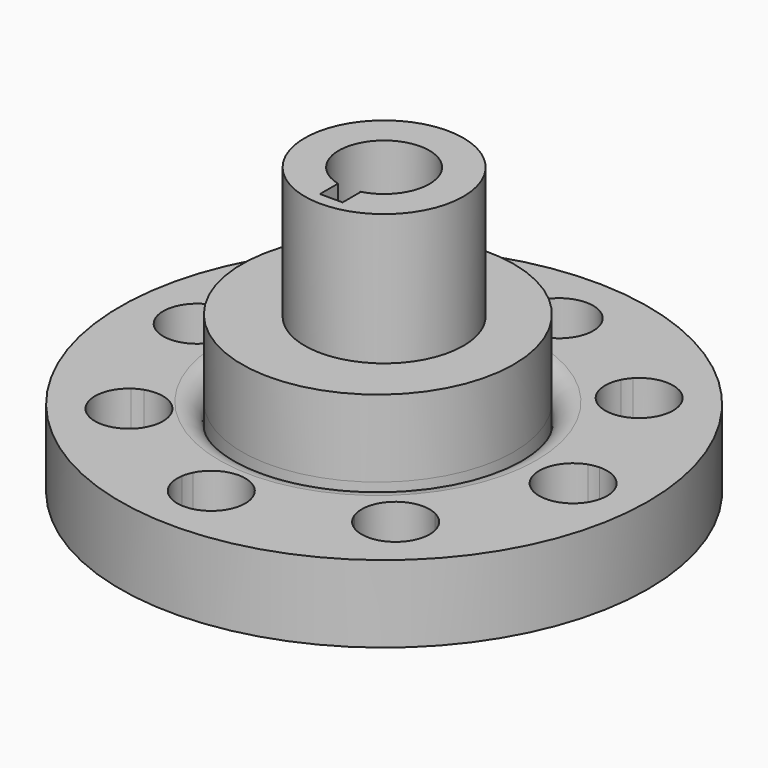
from build123d import *

# Parameters (mm, degrees)
F0_R      = 22.225
F0_R_2    = 12.7
F1_DEPTH  = 58.42
F2_R      = 38.1
F3_DEPTH  = 21.59
F4_DEPTH  = 21.591
F2_R_2    = 55.88
F5_DEPTH  = 21.59
F2_R_3    = 73.9775
F6_DEPTH  = 21.59
F7_DEPTH  = 21.59
F8_R      = 12.7
F9_DEPTH  = 21.591
F11_DEPTH = 25.4
F13_DEPTH = 80.011
F14_DEPTH = 80.011
F15_DEPTH = 80.011
F16_DEPTH = 80.011
F17_DEPTH = 80.011
F18_DEPTH = 80.011
F19_DEPTH = 80.011
F20_R     = 6.35


with BuildPart() as f1:
    # F0 (on Top) → F1 (new body)
    with BuildSketch(Plane.XY):
        Circle(F0_R)
        Circle(F0_R_2, mode=Mode.SUBTRACT)
    extrude(amount=F1_DEPTH)

    # F2 (on Top) → F3 (join)
    with BuildSketch(Plane.XY):
        with Locations((-1.7450299347, 0)):
            Circle(F2_R)
    extrude(amount=F3_DEPTH)

    # F4 (cut, through all): a face of the model
    f4_faces = [f1.faces().sort_by_distance(p)[0] for p in [
        (0, 0, 21.59),
    ]]
    extrude(f4_faces, amount=-F4_DEPTH, mode=Mode.SUBTRACT)

    # F10 (on face) → F11 (cut)
    with BuildSketch(Plane.XY.offset(58.42)):
        with BuildLine():
            ThreePointArc((3.0402036796, -12.3307405125), (0, -12.7), (-3.0402036796, -12.3307405125))
            Line((-3.0402036796, -12.3307405125), (-3.0402036796, -18.6807405125))
            Line((-3.0402036796, -18.6807405125), (3.3097963204, -18.6807405125))
            Line((3.3097963204, -18.6807405125), (3.3097963204, -12.3307405125))
            Line((3.3097963204, -12.3307405125), (3.0402036796, -12.3307405125))
        make_face()
    extrude(amount=-F11_DEPTH, mode=Mode.SUBTRACT)


with BuildPart() as f5:
    # F2 (on Top) → F5 (new body)
    with BuildSketch(Plane.XY):
        Circle(F2_R_2)
        with Locations((-1.7450299347, 0)):
            Circle(F2_R, mode=Mode.SUBTRACT)
    extrude(amount=-F5_DEPTH)

    # F2 (on Top) → F6 (join)
    with BuildSketch(Plane.XY):
        Circle(F2_R_3)
        Circle(F2_R_2, mode=Mode.SUBTRACT)
    extrude(amount=-F6_DEPTH)

    # F12 (on face) → F13 (cut, through all)
    with BuildSketch(Plane(origin=(0, 0, -21.59), x_dir=(1, 0, 0), z_dir=(0, 0, -1))):
        with BuildLine():
            ThreePointArc((51.318961174, -37.0923066064), (50.3070584988, -32.8199771552), (47.4863524728, -29.4554023709))
            ThreePointArc((47.4863524728, -29.4554023709), (44.8031715149, -33.3953622859), (41.793961174, -37.0923066064))
            ThreePointArc((41.793961174, -37.0923066064), (38.4806192525, -40.5193329406), (34.8872566955, -43.6515030699))
            ThreePointArc((34.8872566955, -43.6515030699), (45.3251978443, -45.938548327), (51.318961174, -37.0923066064))
        make_face()
        with BuildLine():
            ThreePointArc((34.8872566955, -43.6515030699), (38.4806192525, -40.5193329406), (41.793961174, -37.0923066064))
            Line((41.793961174, -37.0923066064), (33.2713452593, -41.3456162553))
            ThreePointArc((33.2713452593, -41.3456162553), (33.993623973, -42.5586000993), (34.8872566955, -43.6515030699))
        make_face()
        with BuildLine():
            Line((41.793961174, -37.0923066064), (44.8952914687, -28.0863432818))
            ThreePointArc((44.8952914687, -28.0863432818), (34.6315827709, -30.8132970818), (33.2713452593, -41.3456162553))
            Line((33.2713452593, -41.3456162553), (41.793961174, -37.0923066064))
        make_face()
        with BuildLine():
            ThreePointArc((41.793961174, -37.0923066064), (44.8031715149, -33.3953622859), (47.4863524728, -29.4554023709))
            ThreePointArc((47.4863524728, -29.4554023709), (46.243788762, -28.6706286597), (44.8952914687, -28.0863432818))
            Line((44.8952914687, -28.0863432818), (41.793961174, -37.0923066064))
        make_face()
    extrude(amount=-F13_DEPTH, mode=Mode.SUBTRACT)

    # F12 (on face) → F14 (cut, through all)
    with BuildSketch(Plane(origin=(0, 0, -21.59), x_dir=(1, 0, 0), z_dir=(0, 0, -1))):
        with BuildLine():
            Line((52.6692927405, -5.5113952149), (55.7706230351, 3.4945681097))
            Line((55.7706230351, 3.4945681097), (51.5693433404, 12.0429523972))
            ThreePointArc((51.5693433404, 12.0429523972), (46.264266836, 2.898903091), (52.6692927405, -5.5113952149))
        make_face()
        with BuildLine():
            ThreePointArc((55.7706230351, 3.4945681097), (55.8526490652, 1.7481396965), (55.88, 0))
            ThreePointArc((55.88, 0), (55.7984204348, -3.0183897999), (55.5539199361, -6.0279664671))
            ThreePointArc((55.5539199361, -6.0279664671), (62.4287582088, -3.3168092113), (65.2956230351, 3.4945681097))
            ThreePointArc((65.2956230351, 3.4945681097), (61.989762708, 10.7089930161), (54.3669245093, 12.9155688765))
            ThreePointArc((54.3669245093, 12.9155688765), (55.2698711654, 8.2350313518), (55.7706230351, 3.4945681097))
        make_face()
        with BuildLine():
            ThreePointArc((55.5539199361, -6.0279664671), (55.7984204348, -3.0183897999), (55.88, 0))
            ThreePointArc((55.88, 0), (55.8526490652, 1.7481396965), (55.7706230351, 3.4945681097))
            Line((55.7706230351, 3.4945681097), (52.6692927405, -5.5113952149))
            ThreePointArc((52.6692927405, -5.5113952149), (54.0916209908, -5.8812826322), (55.5539199361, -6.0279664671))
        make_face()
        with BuildLine():
            Line((51.5693433404, 12.0429523972), (55.7706230351, 3.4945681097))
            ThreePointArc((55.7706230351, 3.4945681097), (55.2698711654, 8.2350313518), (54.3669245093, 12.9155688765))
            ThreePointArc((54.3669245093, 12.9155688765), (52.9343737348, 12.5874947512), (51.5693433404, 12.0429523972))
        make_face()
    extrude(amount=-F14_DEPTH, mode=Mode.SUBTRACT)

    # F12 (on face) → F15 (cut, through all)
    with BuildSketch(Plane(origin=(0, 0, -21.59), x_dir=(1, 0, 0), z_dir=(0, 0, -1))):
        with BuildLine():
            ThreePointArc((27.8121552298, 45.0656620552), (30.5578463529, 34.8569082288), (41.0381355722, 33.4709023445))
            Line((41.0381355722, 33.4709023445), (36.8368558775, 42.019286632))
            Line((36.8368558775, 42.019286632), (27.8121552298, 45.0656620552))
        make_face()
        with BuildLine():
            ThreePointArc((41.0381355722, 33.4709023445), (42.3031493704, 34.218949431), (43.4380313731, 35.1526930751))
            ThreePointArc((43.4380313731, 35.1526930751), (40.284015534, 38.7268962409), (36.8368558775, 42.019286632))
            Line((36.8368558775, 42.019286632), (41.0381355722, 33.4709023445))
        make_face()
        with BuildLine():
            ThreePointArc((36.8368558775, 42.019286632), (40.284015534, 38.7268962409), (43.4380313731, 35.1526930751))
            ThreePointArc((43.4380313731, 35.1526930751), (45.6004687625, 38.2877032948), (46.3618558775, 42.019286632))
            ThreePointArc((46.3618558775, 42.019286632), (39.8079631605, 51.0690461046), (29.1653946675, 47.6650202338))
            ThreePointArc((29.1653946675, 47.6650202338), (33.1216371308, 45.0059057655), (36.8368558775, 42.019286632))
        make_face()
        with BuildLine():
            Line((27.8121552298, 45.0656620552), (36.8368558775, 42.019286632))
            ThreePointArc((36.8368558775, 42.019286632), (33.1216371308, 45.0059057655), (29.1653946675, 47.6650202338))
            ThreePointArc((29.1653946675, 47.6650202338), (28.3882097771, 46.4176958978), (27.8121552298, 45.0656620552))
        make_face()
    extrude(amount=-F15_DEPTH, mode=Mode.SUBTRACT)

    # F12 (on face) → F16 (cut, through all)
    with BuildSketch(Plane(origin=(0, 0, -21.59), x_dir=(1, 0, 0), z_dir=(0, 0, -1))):
        with BuildLine():
            ThreePointArc((-12.3570776229, 51.494975557), (-3.1808602807, 46.2457365913), (5.1902389395, 52.7019097828))
            Line((5.1902389395, 52.7019097828), (-3.8344617082, 55.748285206))
            Line((-3.8344617082, 55.748285206), (-12.3570776229, 51.494975557))
        make_face()
        with BuildLine():
            ThreePointArc((-3.8344617082, 55.748285206), (0.930764147, 55.8722478347), (5.6892169, 55.5896322264))
            ThreePointArc((5.6892169, 55.5896322264), (5.6902079381, 55.6689559648), (5.6905382918, 55.748285206))
            ThreePointArc((5.6905382918, 55.748285206), (-4.5671827211, 65.245060707), (-13.2467309821, 54.2871855808))
            ThreePointArc((-13.2467309821, 54.2871855808), (-8.5717844676, 55.2186464072), (-3.8344617082, 55.748285206))
        make_face()
        with BuildLine():
            ThreePointArc((-42.243050764, 36.5800363881), (-38.97173424, 40.0472012796), (-35.4168232731, 43.2229456335))
            ThreePointArc((-35.4168232731, 43.2229456335), (-49.4435707805, 42.8152698633), (-47.8419168883, 28.8743032548))
            ThreePointArc((-47.8419168883, 28.8743032548), (-45.2069677153, 32.846681263), (-42.243050764, 36.5800363881))
        make_face()
        with BuildLine():
            ThreePointArc((-32.718050764, 36.5800363881), (-32.9720329777, 38.7649515366), (-33.7204348492, 40.833346037))
            Line((-33.7204348492, 40.833346037), (-42.243050764, 36.5800363881))
            Line((-42.243050764, 36.5800363881), (-45.2343581205, 27.5369337513))
            ThreePointArc((-45.2343581205, 27.5369337513), (-36.664815271, 28.8593554735), (-32.718050764, 36.5800363881))
        make_face()
        with BuildLine():
            Line((-45.2343581205, 27.5369337513), (-42.243050764, 36.5800363881))
            ThreePointArc((-42.243050764, 36.5800363881), (-45.2069677153, 32.846681263), (-47.8419168883, 28.8743032548))
            ThreePointArc((-47.8419168883, 28.8743032548), (-46.5898782744, 28.1047360633), (-45.2343581205, 27.5369337513))
        make_face()
        with BuildLine():
            Line((-3.8344617082, 55.748285206), (5.1902389395, 52.7019097828))
            ThreePointArc((5.1902389395, 52.7019097828), (5.5514494614, 54.1264663144), (5.6892169, 55.5896322264))
            ThreePointArc((5.6892169, 55.5896322264), (0.930764147, 55.8722478347), (-3.8344617082, 55.748285206))
        make_face()
        with BuildLine():
            ThreePointArc((-13.2467309821, 54.2871855808), (-12.9099306155, 52.8566612483), (-12.3570776229, 51.494975557))
            Line((-12.3570776229, 51.494975557), (-3.8344617082, 55.748285206))
            ThreePointArc((-3.8344617082, 55.748285206), (-8.5717844676, 55.2186464072), (-13.2467309821, 54.2871855808))
        make_face()
        with BuildLine():
            Line((-42.243050764, 36.5800363881), (-33.7204348492, 40.833346037))
            ThreePointArc((-33.7204348492, 40.833346037), (-34.4761791267, 42.0937764953), (-35.4168232731, 43.2229456335))
            ThreePointArc((-35.4168232731, 43.2229456335), (-38.97173424, 40.0472012796), (-42.243050764, 36.5800363881))
        make_face()
    extrude(amount=-F16_DEPTH, mode=Mode.SUBTRACT)

    # F12 (on face) → F17 (cut, through all)
    with BuildSketch(Plane(origin=(0, 0, -21.59), x_dir=(1, 0, 0), z_dir=(0, 0, -1))):
        with BuildLine():
            ThreePointArc((14.0388088454, -55.6973960765), (14.0059414937, -54.9067996017), (13.9075662657, -54.1216592555))
            ThreePointArc((13.9075662657, -54.1216592555), (9.2443226836, -55.1100435322), (4.5138088454, -55.6973960765))
            ThreePointArc((4.5138088454, -55.6973960765), (-0.2495516477, -55.8794427672), (-5.0110961717, -55.6548588639))
            ThreePointArc((-5.0110961717, -55.6548588639), (4.492540186, -65.2223723308), (14.0388088454, -55.6973960765))
        make_face()
        with BuildLine():
            ThreePointArc((13.9075662657, -54.1216592555), (13.571482798, -52.7505049065), (13.0364247601, -51.4440864276))
            Line((13.0364247601, -51.4440864276), (4.5138088454, -55.6973960765))
            ThreePointArc((4.5138088454, -55.6973960765), (9.2443226836, -55.1100435322), (13.9075662657, -54.1216592555))
        make_face()
        with BuildLine():
            Line((4.5138088454, -55.6973960765), (13.0364247601, -51.4440864276))
            ThreePointArc((13.0364247601, -51.4440864276), (3.8022952951, -46.1990081361), (-4.5473597625, -52.7612679358))
            Line((-4.5473597625, -52.7612679358), (4.5138088454, -55.6973960765))
        make_face()
        with BuildLine():
            Line((4.5138088454, -55.6973960765), (-4.5473597625, -52.7612679358))
            ThreePointArc((-4.5473597625, -52.7612679358), (-4.8911765514, -54.1901221511), (-5.0110961717, -55.6548588639))
            ThreePointArc((-5.0110961717, -55.6548588639), (-0.2495516477, -55.8794427672), (4.5138088454, -55.6973960765))
        make_face()
    extrude(amount=-F17_DEPTH, mode=Mode.SUBTRACT)

    # F12 (on face) → F18 (cut, through all)
    with BuildSketch(Plane(origin=(0, 0, -21.59), x_dir=(1, 0, 0), z_dir=(0, 0, -1))):
        with BuildLine():
            ThreePointArc((-43.0062538432, -35.6796374754), (-42.513083422, -49.7036393331), (-28.5821389491, -48.0170358633))
            ThreePointArc((-28.5821389491, -48.0170358633), (-32.570504899, -45.4063498932), (-36.3218576809, -42.4652452555))
            ThreePointArc((-36.3218576809, -42.4652452555), (-39.8088989766, -39.2151241521), (-43.0062538432, -35.6796374754))
        make_face()
        with BuildLine():
            Line((-36.3218576809, -42.4652452555), (-27.260689073, -45.4013733962))
            ThreePointArc((-27.260689073, -45.4013733962), (-26.9135300933, -43.9515147481), (-26.7968576809, -42.4652452555))
            ThreePointArc((-26.7968576809, -42.4652452555), (-31.3359389778, -34.3494434044), (-40.6270392423, -33.9687143914))
            Line((-40.6270392423, -33.9687143914), (-36.3218576809, -42.4652452555))
        make_face()
        with BuildLine():
            ThreePointArc((-43.0062538432, -35.6796374754), (-39.8088989766, -39.2151241521), (-36.3218576809, -42.4652452555))
            Line((-36.3218576809, -42.4652452555), (-40.6270392423, -33.9687143914))
            ThreePointArc((-40.6270392423, -33.9687143914), (-41.8828395264, -34.7321277784), (-43.0062538432, -35.6796374754))
        make_face()
        with BuildLine():
            ThreePointArc((-28.5821389491, -48.0170358633), (-27.8202180517, -46.7603294938), (-27.260689073, -45.4013733962))
            Line((-27.260689073, -45.4013733962), (-36.3218576809, -42.4652452555))
            ThreePointArc((-36.3218576809, -42.4652452555), (-32.570504899, -45.4063498932), (-28.5821389491, -48.0170358633))
        make_face()
    extrude(amount=-F18_DEPTH, mode=Mode.SUBTRACT)

    # F12 (on face) → F19 (cut, through all)
    with BuildSketch(Plane(origin=(0, 0, -21.59), x_dir=(1, 0, 0), z_dir=(0, 0, -1))):
        with BuildLine():
            Line((-55.7238759175, -4.1742128282), (-51.4186943561, -12.6707436922))
            ThreePointArc((-51.4186943561, -12.6707436922), (-47.6080740664, -9.1601315313), (-46.1988759175, -4.1742128282))
            ThreePointArc((-46.1988759175, -4.1742128282), (-48.0031950028, 1.4040226648), (-52.7325685609, 4.8688898086))
            Line((-52.7325685609, 4.8688898086), (-55.7238759175, -4.1742128282))
        make_face()
        with BuildLine():
            ThreePointArc((-55.6232789524, 5.3502559366), (-65.2222638579, -4.8857263784), (-54.2054294836, -13.5774008741))
            ThreePointArc((-54.2054294836, -13.5774008741), (-55.1653698696, -8.9082190786), (-55.7238759175, -4.1742128282))
            ThreePointArc((-55.7238759175, -4.1742128282), (-55.8768834198, 0.5901688619), (-55.6232789524, 5.3502559366))
        make_face()
        with BuildLine():
            ThreePointArc((-55.7238759175, -4.1742128282), (-55.1653698696, -8.9082190786), (-54.2054294836, -13.5774008741))
            ThreePointArc((-54.2054294836, -13.5774008741), (-52.7769847474, -13.2318867808), (-51.4186943561, -12.6707436922))
            Line((-51.4186943561, -12.6707436922), (-55.7238759175, -4.1742128282))
        make_face()
        with BuildLine():
            ThreePointArc((-52.7325685609, 4.8688898086), (-54.1593004412, 5.2214100133), (-55.6232789524, 5.3502559366))
            ThreePointArc((-55.6232789524, 5.3502559366), (-55.8768834198, 0.5901688619), (-55.7238759175, -4.1742128282))
            Line((-55.7238759175, -4.1742128282), (-52.7325685609, 4.8688898086))
        make_face()
    extrude(amount=-F19_DEPTH, mode=Mode.SUBTRACT)

    # F20
    f20_edges = [f5.edges().sort_by_distance(p)[0] for p in [
        (-39.84503, 0, 0),
    ]]
    fillet(f20_edges, radius=F20_R)


with BuildPart() as f7:
    # F2 (on Top) → F7 (new body)
    with BuildSketch(Plane.XY):
        with Locations((-1.7450299347, 0)):
            Circle(F2_R)
    extrude(amount=-F7_DEPTH)

    # F8 (on Top) → F9 (cut, through all)
    with BuildSketch(Plane.XY):
        Circle(F8_R)
    extrude(amount=-F9_DEPTH, mode=Mode.SUBTRACT)


solid = Compound([f1.part, f5.part, f7.part])
